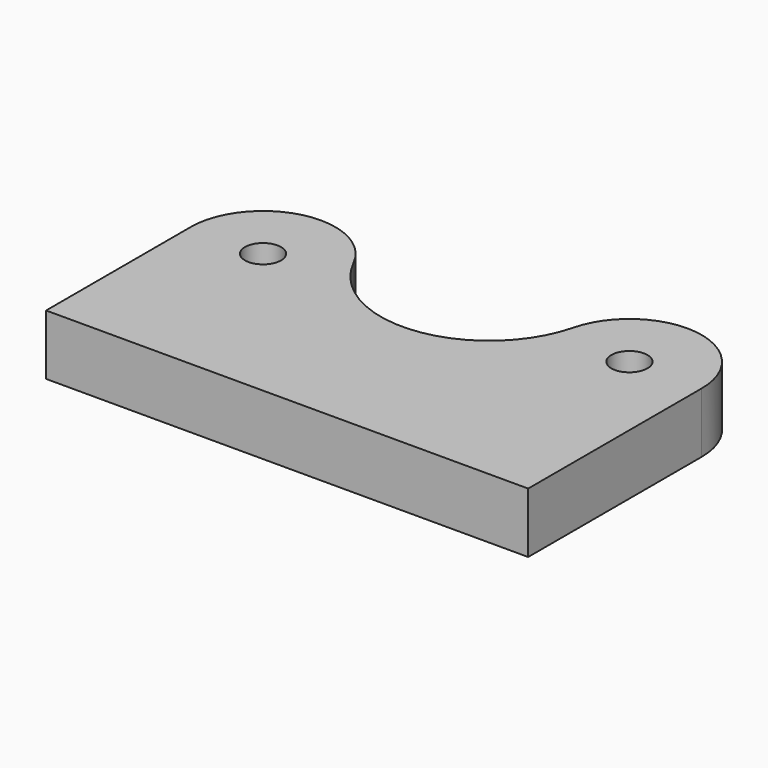
from build123d import *

# Parameters (mm, degrees)
SKETCH_R  = 3
PAD_DEPTH = 10


with BuildPart() as part:
    # Sketch → Pad (new body)
    with BuildSketch(Plane.XY):
        with BuildLine():
            Line((0, 0), (80, 0))
            Line((80, 0), (80, 36))
            ThreePointArc((80, 36), (69.46807, 47.90986), (56.359205, 38.914086))
            ThreePointArc((22.759205, 35.314086), (40.815609, 25.387649), (56.359205, 38.914086))
            ThreePointArc((22.759205, 35.314086), (9.27149, 41.685685), (0, 30))
            Line((0, 30), (0, 0))
        make_face()
        with Locations((68, 36)):
            Circle(SKETCH_R, mode=Mode.SUBTRACT)
        with Locations((12, 30)):
            Circle(SKETCH_R, mode=Mode.SUBTRACT)
    extrude(amount=PAD_DEPTH)


solid = part.part
